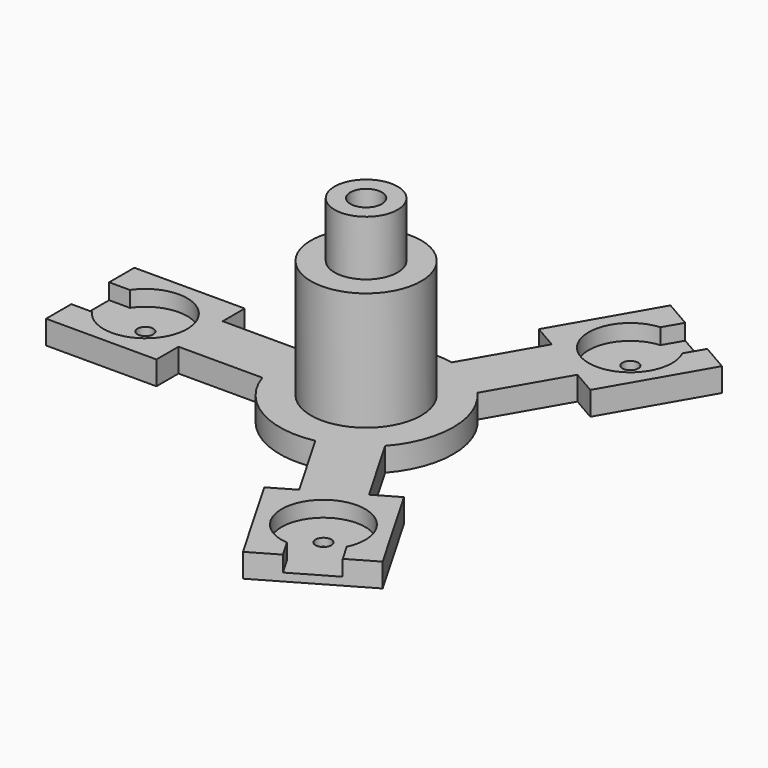
from build123d import *

# Parameters (mm, degrees)
PAD_DEPTH       = 3
POCKET_DEPTH    = 2
SKETCH002_R     = 1
POCKET001_DEPTH = 5
SKETCH003_R     = 1
POCKET002_DEPTH = 5
SKETCH004_R     = 1
POCKET003_DEPTH = 5
SKETCH005_R     = 7
PAD001_DEPTH    = 15
SKETCH006_R     = 4
PAD002_DEPTH    = 7
SKETCH007_R     = 2
POCKET004_DEPTH = 5


with BuildPart() as part:
    # Sketch001 → Pad (new body)
    with BuildSketch(Plane.XY):
        with BuildLine():
            ThreePointArc((-10.37, -3.5), (-5.464747, -9.51292), (2.189111, -10.791652))
            Line((2.189111, -10.791652), (7.504111, -19.997502))
            Line((4.473022, -21.747502), (7.504111, -19.997502))
            Line((11.473022, -33.871858), (4.473022, -21.747502))
            Line((23.597378, -26.871858), (11.473022, -33.871858))
            Line((16.597378, -14.747502), (23.597378, -26.871858))
            Line((13.566289, -16.497502), (16.597378, -14.747502))
            Line((8.268243, -7.321016), (13.566289, -16.497502))
            ThreePointArc((8.268243, -7.321016), (11.058304, -0.022464), (8.298076, 7.287423))
            Line((8.298076, 7.287423), (13.613076, 16.493273))
            Line((13.613076, 16.493273), (16.644165, 14.743273))
            Line((16.644165, 14.743273), (23.644166, 26.867628))
            Line((11.519811, 33.867628), (23.644166, 26.867628))
            Line((4.519811, 21.743272), (11.519811, 33.867628))
            Line((4.519811, 21.743272), (7.5509, 19.993272))
            Line((2.233255, 10.782842), (7.5509, 19.993272))
            ThreePointArc((2.233255, 10.782842), (-5.445271, 9.524201), (-10.37, 3.5))
            Line((-21, 3.5), (-10.37, 3.5))
            Line((-21, 7), (-21, 3.5))
            Line((-35, 7), (-21, 7))
            Line((-35, -7), (-35, 7))
            Line((-21, -7), (-35, -7))
            Line((-21, -3.5), (-21, -7))
            Line((-21, -3.5), (-10.37, -3.5))
        make_face()
    extrude(amount=PAD_DEPTH)

    # Sketch (on Face26 of Pad) → Pocket (cut)
    with BuildSketch(Plane.XY.offset(3)):
        with BuildLine():
            ThreePointArc((-32.36921, -3), (-22.7, 0), (-32.36921, 3))
            Line((-36.36921, 3), (-32.36921, 3))
            Line((-36.36921, 3), (-36.36921, -3))
            Line((-36.36921, -3), (-32.36921, -3))
        make_face()
        with BuildLine():
            ThreePointArc((18.817882, -26.593527), (11.3852, -19.719745), (13.621729, -29.593527))
            Line((16.401924, -34.408965), (13.621729, -29.593527))
            Line((16.401924, -34.408965), (21.598076, -31.408965))
            Line((21.598076, -31.408965), (18.817882, -26.593527))
        make_face()
        with BuildLine():
            ThreePointArc((13.671444, 29.589525), (11.425024, 19.719543), (18.870322, 26.577421))
            Line((21.642084, 31.378253), (18.870322, 26.577421))
            Line((16.450494, 34.386142), (21.642084, 31.378253))
            Line((13.671444, 29.589525), (16.450494, 34.386142))
        make_face()
    extrude(amount=-POCKET_DEPTH, mode=Mode.SUBTRACT)

    # Sketch002 (on Face38 of Pocket) → Pocket001 (cut)
    with BuildSketch(Plane.XY.offset(1)):
        with Locations((-28, 0)):
            Circle(SKETCH002_R)
    extrude(amount=-POCKET001_DEPTH, mode=Mode.SUBTRACT)

    # Sketch003 (on Face39 of Pocket001) → Pocket002 (cut)
    with BuildSketch(Plane.XY.offset(1)):
        with Locations((14.081988, 24.30545)):
            Circle(SKETCH003_R)
    extrude(amount=-POCKET002_DEPTH, mode=Mode.SUBTRACT)

    # Sketch004 (on Face39 of Pocket002) → Pocket003 (cut)
    with BuildSketch(Plane.XY.offset(1)):
        with Locations((14.0352, -24.30968)):
            Circle(SKETCH004_R)
    extrude(amount=-POCKET003_DEPTH, mode=Mode.SUBTRACT)

    # Sketch005 (on Face5 of Pocket003) → Pad001 (join)
    with BuildSketch(Plane.XY.offset(3)):
        Circle(SKETCH005_R)
    extrude(amount=PAD001_DEPTH)

    # Sketch006 (on Face43 of Pad001) → Pad002 (join)
    with BuildSketch(Plane.XY.offset(18)):
        Circle(SKETCH006_R)
    extrude(amount=PAD002_DEPTH)

    # Sketch007 (on Face45 of Pad002) → Pocket004 (cut)
    with BuildSketch(Plane.XY.offset(25)):
        Circle(SKETCH007_R)
    extrude(amount=-POCKET004_DEPTH, mode=Mode.SUBTRACT)


solid = part.part
